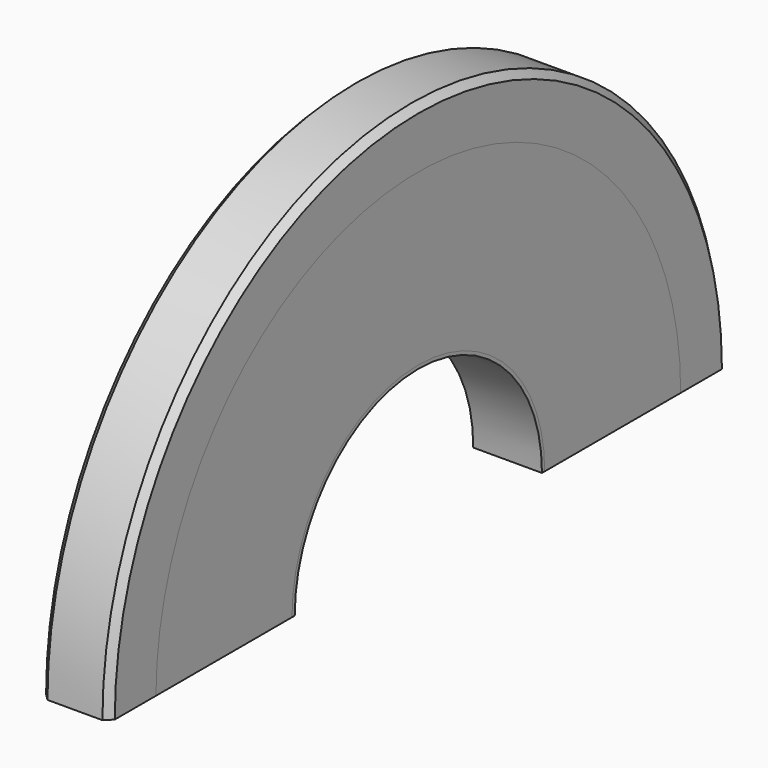
from build123d import *

# Parameters (mm, degrees)
F0_W           = 20
F0_H           = 1
F2_W           = 20
F2_H           = 49.5
F4_W           = 20
F4_H           = 17
F8_SIZE        = 2
F9_W           = 20
F9_H           = 115
F10_DEPTH      = 112.501
F10_DEPTH_BACK = 112.501
F11_R          = 4
F12_DEPTH      = 8
F14_D          = 5
F14_DEPTH      = 15
F14_TIP        = 1.5021515476


with BuildPart() as f1:
    # F0 (on Front) → F1 (revolve)
    with BuildSketch(Plane.XZ):
        with Locations((0, 45.5)):
            Rectangle(F0_W, F0_H)
    revolve(axis=Axis((0, 0, 0), (1, 0, 0)))


with BuildPart() as f3:
    # F2 (on Front) → F3 (revolve)
    with BuildSketch(Plane.XZ):
        with Locations((0, 70.75)):
            Rectangle(F2_W, F2_H)
    revolve(axis=Axis((0, 0, 0), (1, 0, 0)))


with BuildPart() as f5:
    # F4 (on Front) → F5 (revolve)
    with BuildSketch(Plane.XZ):
        with Locations((0, 104)):
            Rectangle(F4_W, F4_H)
    revolve(axis=Axis((0, 0, 0), (1, 0, 0)))

    # F8
    f8_edges = [f5.edges().sort_by_distance(p)[0] for p in [
        (10, 0, -112.5),
        (-10, 0, -112.5),
    ]]
    chamfer(f8_edges, length=F8_SIZE)


with BuildPart() as f10_tool:
    # F9 (on Front) → F10 (new body, two sides)
    with BuildSketch(Plane.XZ) as f10_sk:
        with Locations((0, -57.5)):
            Rectangle(F9_W, F9_H)
    extrude(amount=F10_DEPTH)
    extrude(f10_sk.sketch, amount=-F10_DEPTH_BACK)


with BuildPart() as f1_1:
    add(f1.part)

    # F10: cut by f10_tool
    add(f10_tool.part, mode=Mode.SUBTRACT)


with BuildPart() as f3_1:
    add(f3.part)

    # F10: cut by f10_tool
    add(f10_tool.part, mode=Mode.SUBTRACT)


with BuildPart() as f5_1:
    add(f5.part)

    # F10: cut by f10_tool
    add(f10_tool.part, mode=Mode.SUBTRACT)

    # F11 (on face) → F12 (cut)
    with BuildSketch(Plane(origin=(0, 0, 0), x_dir=(1, 0, 0), z_dir=(0, 0, -1))):
        with Locations((0, 104)):
            Circle(F11_R)
        with Locations((0, -104)):
            Circle(F11_R)
    extrude(amount=-F12_DEPTH, mode=Mode.SUBTRACT)

    # F14
    with Locations(Plane(origin=(0, 0, 8), x_dir=(1, 0, 0), z_dir=(0, 0, -1))):
        with Locations((0, 104), (0, -104)):
            Hole(F14_D / 2, depth=F14_DEPTH)
            with Locations((0, 0, -(F14_DEPTH + F14_TIP / 2))):  # 118° drill point
                Cone(0, F14_D / 2, F14_TIP, mode=Mode.SUBTRACT)


solid = Compound([f1_1.part, f3_1.part, f5_1.part])
